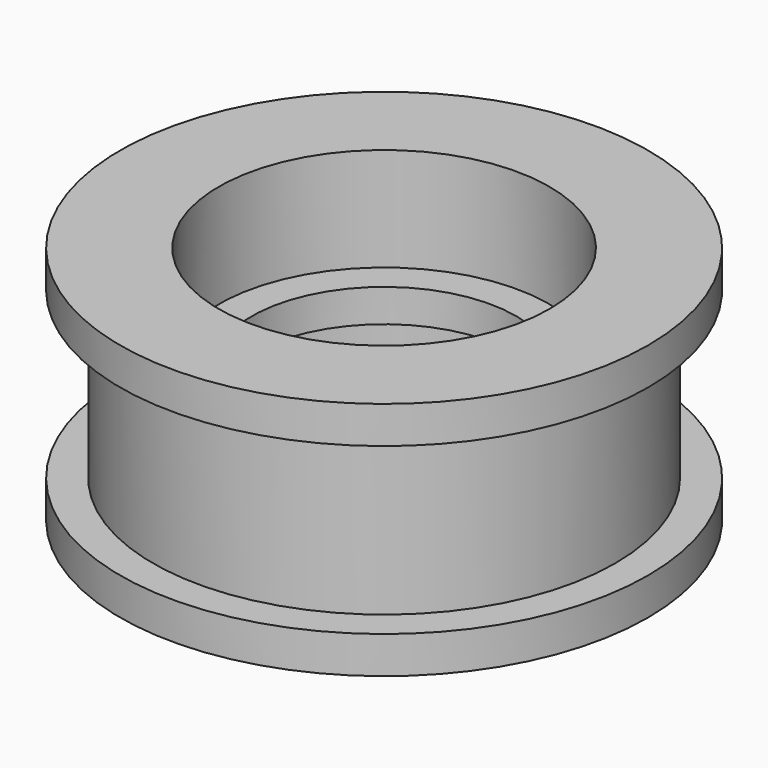
from build123d import *

# Parameters (mm, degrees)
F0_R     = 12.7625
F0_R_2   = 6.4125
F1_DEPTH = 1.793748
F2_R     = 11.175
F2_R_2   = 6.4125
F3_DEPTH = 8
F4_R     = 12.7625
F4_R_2   = 6.4125
F5_DEPTH = 1.793748
F6_R     = 8
F7_DEPTH = 5
F8_R     = 8
F9_DEPTH = 5


with BuildPart() as f1:
    # F0 (on Top) → F1 (new body)
    with BuildSketch(Plane.XY):
        Circle(F0_R)
        Circle(F0_R_2, mode=Mode.SUBTRACT)
    extrude(amount=F1_DEPTH)

    # F2 (on face) → F3 (join)
    with BuildSketch(Plane.XY.offset(1.793748)):
        Circle(F2_R)
        Circle(F2_R_2, mode=Mode.SUBTRACT)
    extrude(amount=F3_DEPTH)

    # F4 (on face) → F5 (join)
    with BuildSketch(Plane.XY.offset(9.793748)):
        Circle(F4_R)
        Circle(F4_R_2, mode=Mode.SUBTRACT)
    extrude(amount=F5_DEPTH)

    # F6 (on face) → F7 (cut)
    with BuildSketch(Plane(origin=(0, 0, 0), x_dir=(1, 0, 0), z_dir=(0, 0, -1))):
        Circle(F6_R)
    extrude(amount=-F7_DEPTH, mode=Mode.SUBTRACT)

    # F8 (on face) → F9 (cut)
    with BuildSketch(Plane.XY.offset(11.587496)):
        Circle(F8_R)
    extrude(amount=-F9_DEPTH, mode=Mode.SUBTRACT)


solid = f1.part
